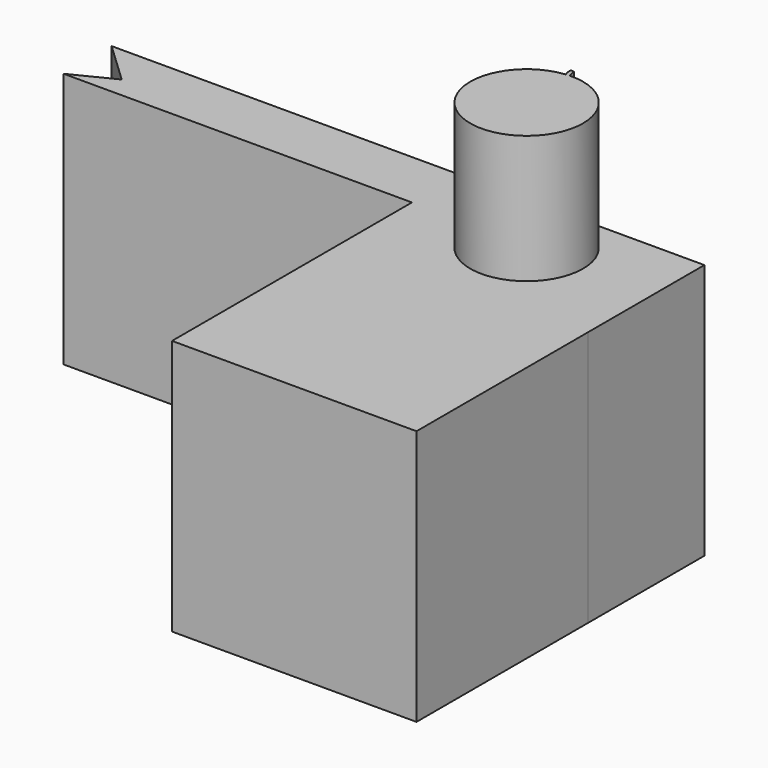
from build123d import *

# Parameters (mm, degrees)
F0_W     = 24.2662671953
F0_H     = 21.2902147323
F1_DEPTH = 25.4
F2_W     = 18.0781867821
F2_H     = 16.5515192784
F3_DEPTH = 12.7
F5_DEPTH = 12.7


with BuildPart() as f1:
    # F0 (on Top) → F1 (new body)
    with BuildSketch(Plane.XY):
        with Locations((-12.1331335977, 10.6451073661)):
            Rectangle(F0_W, F0_H)
        Polygon((-24.2662671953, 21.2902147323), (0, 21.2902147323), (0, 34.7969122231), (0, 35.7126183808), (-58.8342510164, 35.7126183808), (-54.7135621309, 31.82085976), (-58.8342510164, 29.76051718), (-24.2662671953, 29.76051718), align=None)
    extrude(amount=F1_DEPTH)

    # F2 (on face) → F3 (cut)
    with BuildSketch(Plane(origin=(0, 35.7126183808, 0), x_dir=(-1, 0, 0), z_dir=(0, 1, 0))):
        with Locations((12.5608363887, 12.9621129017)):
            Rectangle(F2_W, F2_H)
    extrude(amount=-F3_DEPTH, mode=Mode.SUBTRACT)

    # F4 (on face) → F5 (join)
    with BuildSketch(Plane.XY.offset(25.4)):
        with BuildLine():
            Line((-12.9212626108, 35.7126183808), (-13.2771370955, 35.7126183808))
            ThreePointArc((-13.2771370955, 35.7126183808), (-13.246046568, 35.3136187013), (-13.1263993339, 34.9317130788))
            ThreePointArc((-13.1263993339, 34.9317130788), (-12.1871466245, 23.7773669845), (-12.7422108084, 34.9574177981))
            ThreePointArc((-12.7422108084, 34.9574177981), (-12.8843245269, 35.3225499536), (-12.9212626108, 35.7126183808))
        make_face()
    extrude(amount=F5_DEPTH)


solid = f1.part
